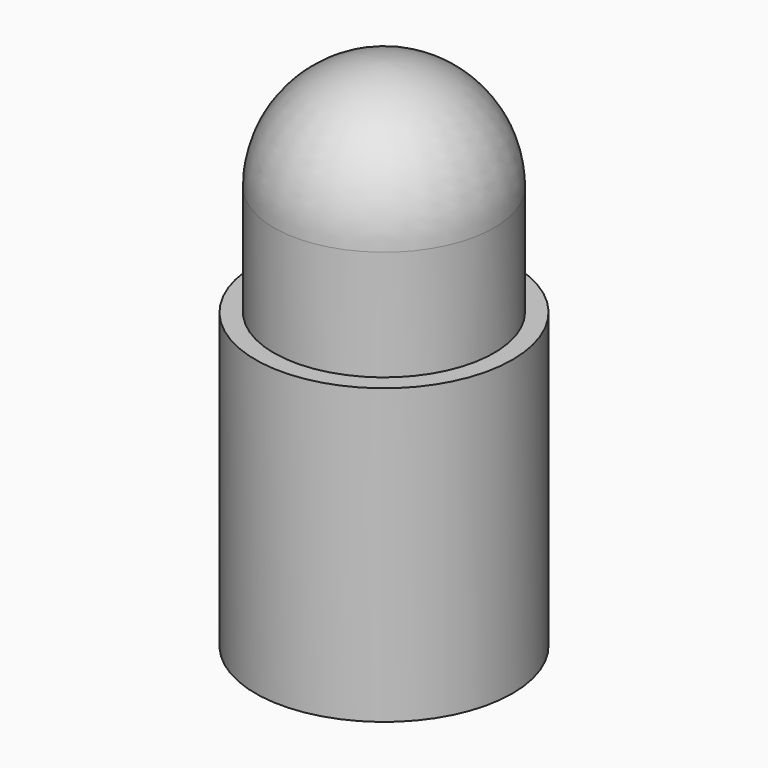
from build123d import *


with BuildPart() as f1:
    # F0 (on Front) → F1 (revolve)
    with BuildSketch(Plane.XZ):
        with BuildLine():
            Line((0, -5.5), (0, 1.5))
            ThreePointArc((0, 1.5), (-1.06066, 1.06066), (-1.5, 0))
            Line((-1.5, 0), (-1.5, -1.5))
            Line((-1.5, -1.5), (-1.75, -1.5))
            Line((-1.75, -1.5), (-1.75, -5.5))
            Line((-1.75, -5.5), (0, -5.5))
        make_face()
    revolve(axis=Axis((0, 0, -2), (0, 0, 1)))


solid = f1.part
